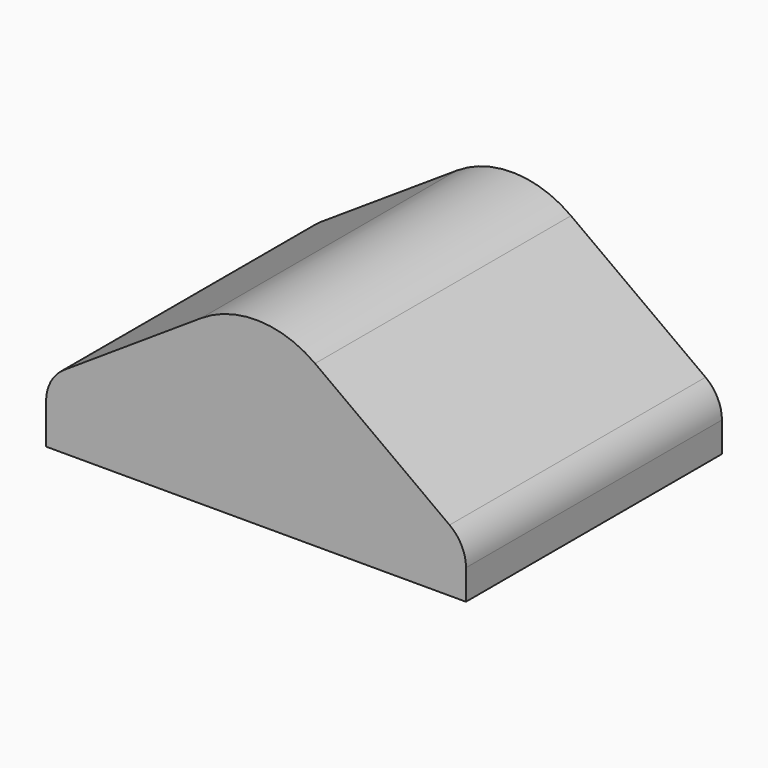
from build123d import *

# Parameters (mm, degrees)
F1_DEPTH = 16


with BuildPart() as f1:
    # F0 (on Front) → F1 (new body)
    with BuildSketch(Plane.XZ):
        with BuildLine():
            Line((-35.086694, 10.800404), (-35.086694, 8.800404))
            Line((-35.086694, 8.800404), (-14.086694, 8.800404))
            Line((-14.086694, 8.800404), (-14.086694, 10.300404))
            ThreePointArc((-14.086694, 10.300404), (-14.303248, 11.205567), (-14.906015, 11.914714))
            Line((-14.906015, 11.914714), (-21.634996, 16.836179))
            ThreePointArc((-21.634996, 16.836179), (-24.462494, 17.798861), (-27.334315, 16.977793))
            Line((-27.334315, 16.977793), (-34.185742, 12.47136))
            ThreePointArc((-34.185742, 12.47136), (-34.847106, 11.749589), (-35.086694, 10.800404))
        make_face()
    extrude(amount=F1_DEPTH)


solid = f1.part
